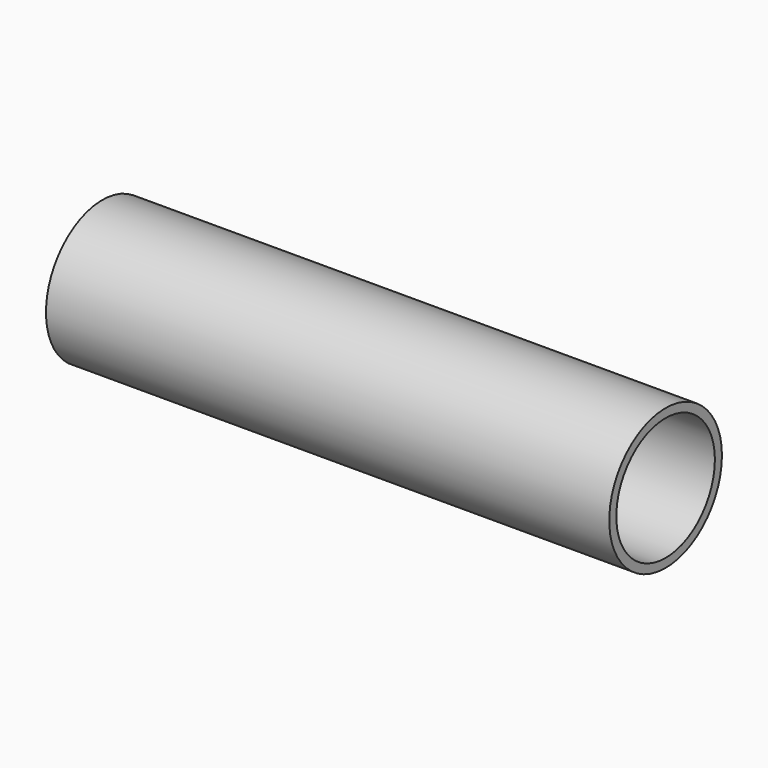
from build123d import *

# Parameters (mm, degrees)
F0_R     = 12.7
F0_R_2   = 11.1125
F1_DEPTH = 101.6
F3_R     = 11.1125
F4_DEPTH = 3.175


with BuildPart() as f1:
    # F0 (on Right) → F1 (new body)
    with BuildSketch(Plane.YZ):
        Circle(F0_R)
        Circle(F0_R_2, mode=Mode.SUBTRACT)
    extrude(amount=F1_DEPTH)


with BuildPart() as f4:
    # F3 (on offset) → F4 (new body)
    with BuildSketch(Plane.YZ.offset(50.8)):
        Circle(F3_R)
    extrude(amount=F4_DEPTH)


solid = Compound([f1.part, f4.part])
